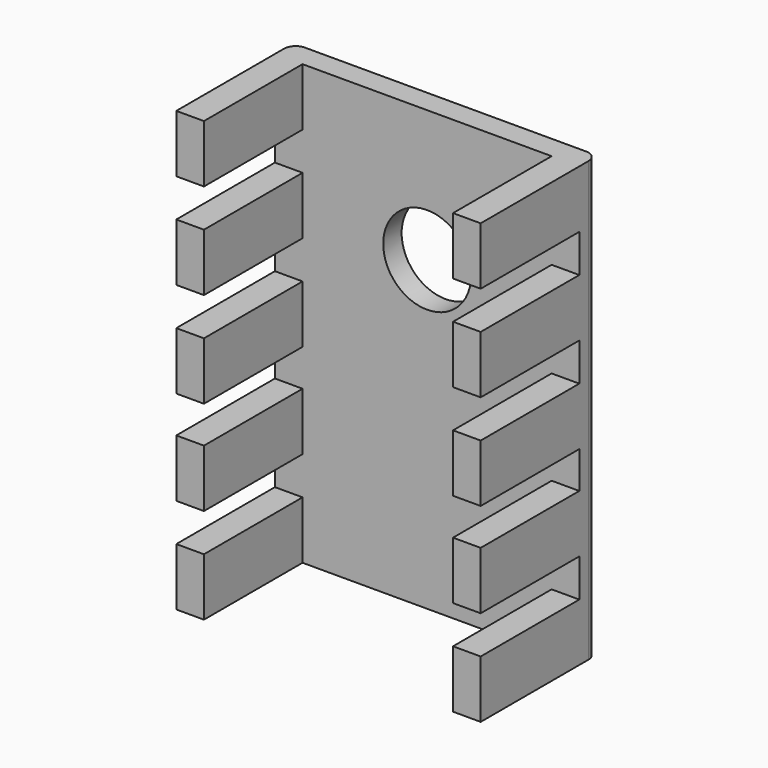
from build123d import *

# Parameters (mm, degrees)
F0_W     = 13.21
F0_H     = 19.05
F1_DEPTH = 1
F2_W     = 1.2
F2_H     = 2.5
F3_DEPTH = 5.35
F4_R     = 0.5
F6_D     = 3.81


with BuildPart() as f1:
    # F0 (on Front) → F1 (new body)
    with BuildSketch(Plane.XZ):
        Rectangle(F0_W, F0_H)
    extrude(amount=F1_DEPTH)

    # F2 (on face) → F3 (join)
    with BuildSketch(Plane.XZ.offset(1)):
        with Locations((6.005, 8.275)):
            Rectangle(F2_W, F2_H)
        with Locations((6.005, 4.125)):
            Rectangle(F2_W, F2_H)
        Polygon((6.605, -1.275), (6.605, 1.225), (5.405, 1.225), (5.405, -1.225), (5.405, -1.275), align=None)
        with Locations((6.005, -4.125)):
            Rectangle(F2_W, F2_H)
        with Locations((6.005, -8.275)):
            Rectangle(F2_W, F2_H)
        with Locations((-6.005, 8.275)):
            Rectangle(F2_W, F2_H)
        with Locations((-6.005, 4.125)):
            Rectangle(F2_W, F2_H)
        with Locations((-6.005, -0.025)):
            Rectangle(F2_W, F2_H)
        with Locations((-6.005, -4.125)):
            Rectangle(F2_W, F2_H)
        with Locations((-6.005, -8.275)):
            Rectangle(F2_W, F2_H)
    extrude(amount=F3_DEPTH)

    # F4
    f4_edges = [f1.edges().sort_by_distance(p)[0] for p in [
        (6.605, 0, 0),
        (-6.605, 0, 0),
    ]]
    fillet(f4_edges, radius=F4_R)

    # F6 (through all)
    with Locations(Plane(origin=(0, 0, 0), x_dir=(-1, 0, 0), z_dir=(0, 1, 0))):
        with Locations((0, 3.805)):
            Hole(F6_D / 2)


solid = f1.part
